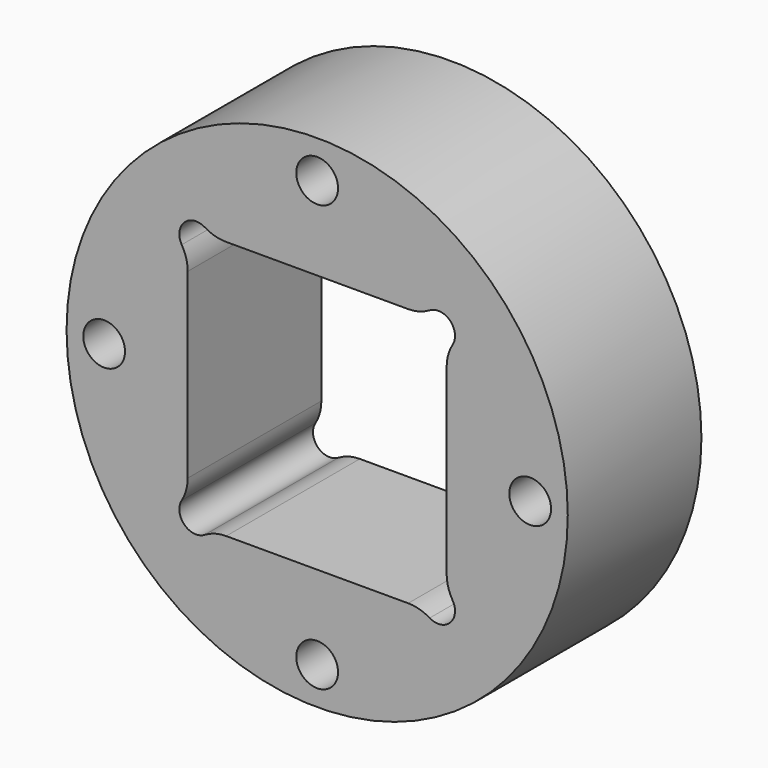
from build123d import *

# Parameters (mm, degrees)
F0_R     = 30
F0_R_2   = 2.5
F1_DEPTH = 20
F2_W     = 31
F2_H     = 31
F3_DEPTH = 20.001
F4_R     = 2
F5_DEPTH = 20.001
F6_R     = 5


with BuildPart() as f1:
    # F0 (on Front) → F1 (new body)
    with BuildSketch(Plane.XZ):
        Circle(F0_R)
        with Locations((0, -25.5)):
            Circle(F0_R_2, mode=Mode.SUBTRACT)
        with Locations((-25.5, 0)):
            Circle(F0_R_2, mode=Mode.SUBTRACT)
        with Locations((25.5, 0)):
            Circle(F0_R_2, mode=Mode.SUBTRACT)
        with Locations((0, 25.5)):
            Circle(F0_R_2, mode=Mode.SUBTRACT)
    extrude(amount=F1_DEPTH)

    # F2 (on Front) → F3 (cut, through all)
    with BuildSketch(Plane.XZ):
        Rectangle(F2_W, F2_H)
    extrude(amount=F3_DEPTH, mode=Mode.SUBTRACT)

    # F4 (on Front) → F5 (cut, through all)
    with BuildSketch(Plane.XZ):
        with Locations((-14.5, 14.5)):
            Circle(F4_R)
        with Locations((14.5, 14.5)):
            Circle(F4_R)
        with Locations((14.5, -14.5)):
            Circle(F4_R)
        with Locations((-14.5, -14.5)):
            Circle(F4_R)
    extrude(amount=F5_DEPTH, mode=Mode.SUBTRACT)

    # F6
    f6_edges = [f1.edges().sort_by_distance(p)[0] for p in [
        (-12.767949, -10, 15.5),
        (-15.5, -10, 12.767949),
        (-15.5, -10, -12.767949),
        (-12.767949, -10, -15.5),
        (12.767949, -10, -15.5),
        (15.5, -10, -12.767949),
        (15.5, -10, 12.767949),
        (12.767949, -10, 15.5),
    ]]
    fillet(f6_edges, radius=F6_R)


solid = f1.part
